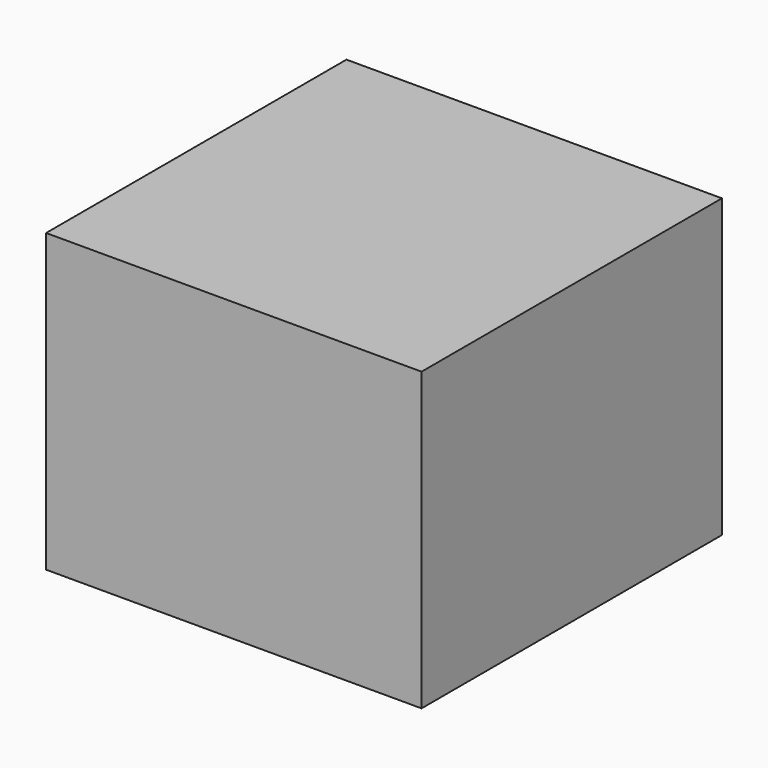
from build123d import *

# Parameters (mm, degrees)
F0_W     = 74
F0_H     = 74
F1_DEPTH = 59
F2_T     = -1
F3_W     = 76
F3_H     = 76
F3_W_2   = 74
F3_H_2   = 74
F4_DEPTH = 60
F5_W     = 74
F5_H     = 1
F6_DEPTH = 74


with BuildPart() as f1:
    # F0 (on Top) → F1 (new body)
    with BuildSketch(Plane.XY):
        Rectangle(F0_W, F0_H)
    extrude(amount=F1_DEPTH)

    # F2
    f2_openings = [f1.faces().sort_by_distance(p)[0] for p in [
        (0, 0, 59),
    ]]
    offset(amount=F2_T, openings=f2_openings)

    # F3 (on Top) → F4 (join)
    with BuildSketch(Plane.XY):
        Rectangle(F3_W, F3_H)
        Rectangle(F3_W_2, F3_H_2, mode=Mode.SUBTRACT)
    extrude(amount=F4_DEPTH)

    # F5 (on face) → F6 (join, through all)
    with BuildSketch(Plane.YZ.offset(-37)):
        with Locations((0, 59.5)):
            Rectangle(F5_W, F5_H)
    extrude(amount=F6_DEPTH)


solid = f1.part
